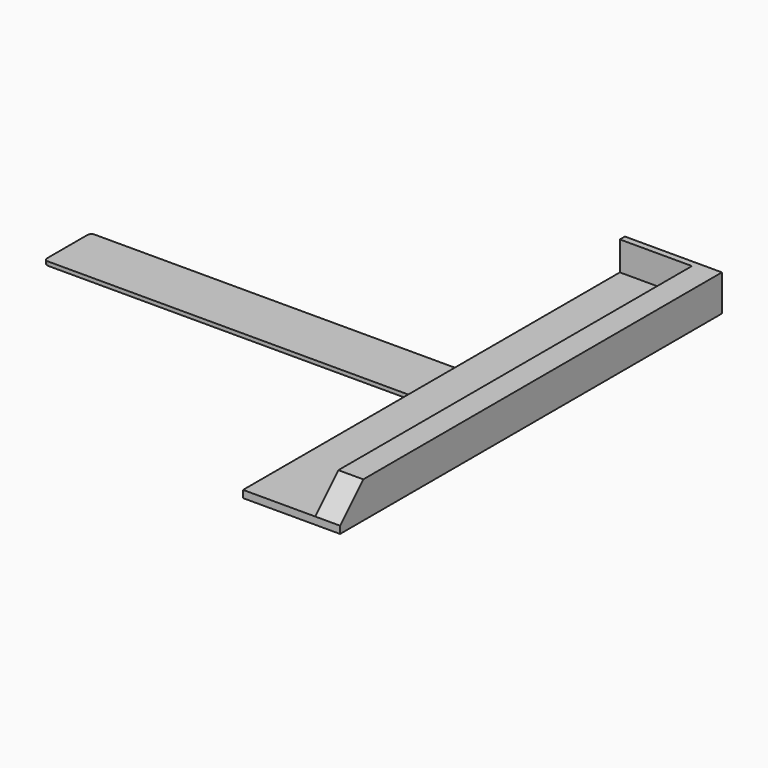
from build123d import *

# Parameters (mm, degrees)
BOX_W                  = 230
BOX_H                  = 30
BOX_DEPTH              = 2
FILLET_R               = 2
CYLINDER003_R          = 1.75
CYLINDER003_DEPTH      = 6
CYLINDER001_R          = 6.88
CYLINDER001_DEPTH      = 2
CYLINDER002_R          = 1.75
CYLINDER002_DEPTH      = 6
BOX004_W               = 20
BOX004_H               = 20
BOX004_DEPTH           = 28
BOX004_PLACEMENT_ANGLE = 45
BOX003_W               = 37.15
BOX003_H               = 242.75
BOX003_DEPTH           = 14.95
BOX002_W               = 50
BOX002_H               = 246
BOX002_DEPTH           = 14.95
BOX001_W               = 50
BOX001_H               = 246
BOX001_DEPTH           = 3.75
CYLINDER_R             = 6.88
CYLINDER_DEPTH         = 2


with BuildPart() as fillet_body:
    # Box → Box (new body)
    with BuildSketch(Plane.XY):
        with Locations((115, 15)):
            Rectangle(BOX_W, BOX_H)
    extrude(amount=BOX_DEPTH)

    # Fillet
    fillet_edges = [fillet_body.edges().sort_by_distance(p)[0] for p in [
        (0, 0, 1),
        (0, 30, 1),
        (230, 0, 1),
        (230, 30, 1),
    ]]
    fillet(fillet_edges, radius=FILLET_R)


with BuildPart() as fillet_body_1:
    # Fillet placement: moved
    add(fillet_body.part.moved(Location((11, 110.55, -1))))


with BuildPart() as cylinder003:
    # Cylinder003 → Cylinder003 (new body)
    with BuildSketch(Plane(origin=(21.63, 233.64, -2), x_dir=(1, 0, 0), z_dir=(0, 0, 1))):
        Circle(CYLINDER003_R)
    extrude(amount=CYLINDER003_DEPTH)


with BuildPart() as cylinder001:
    # Cylinder001 → Cylinder001 (new body)
    with BuildSketch(Plane(origin=(21.63, 233.64, -2), x_dir=(1, 0, 0), z_dir=(0, 0, 1))):
        Circle(CYLINDER001_R)
    extrude(amount=CYLINDER001_DEPTH)


with BuildPart() as cylinder002:
    # Cylinder002 → Cylinder002 (new body)
    with BuildSketch(Plane(origin=(21.63, 26.63, -2), x_dir=(1, 0, 0), z_dir=(0, 0, 1))):
        Circle(CYLINDER002_R)
    extrude(amount=CYLINDER002_DEPTH)


with BuildPart() as cube004:
    # Box004 → Box004 (new body)
    with BuildSketch(Plane.XY):
        with Locations((10, 10)):
            Rectangle(BOX004_W, BOX004_H)
    extrude(amount=BOX004_DEPTH)


with BuildPart() as cube004_1:
    # Box004 placement: moved
    add(cube004.part.moved(Location((0, -14.1422, 17.8921))).rotate(Axis((0, -14.1422, 17.8921), (-1, 0, 0)), BOX004_PLACEMENT_ANGLE))


with BuildPart() as cube003:
    # Box003 → Box003 (new body)
    with BuildSketch(Plane(origin=(12.85, 0, 3.75), x_dir=(1, 0, 0), z_dir=(0, 0, 1))):
        with Locations((18.575, 121.375)):
            Rectangle(BOX003_W, BOX003_H)
    extrude(amount=BOX003_DEPTH)


with BuildPart() as cut001:
    # Box002 → Box002 (new body)
    with BuildSketch(Plane.XY.offset(3.75)):
        with Locations((25, 123)):
            Rectangle(BOX002_W, BOX002_H)
    extrude(amount=BOX002_DEPTH)

    # Cut: cut Cube003
    add(cube003.part, mode=Mode.SUBTRACT)

    # Cut001: cut Cube004
    add(cube004_1.part, mode=Mode.SUBTRACT)


with BuildPart() as fusion:
    # Box001 → Box001 (new body)
    with BuildSketch(Plane.XY):
        with Locations((25, 123)):
            Rectangle(BOX001_W, BOX001_H)
    extrude(amount=BOX001_DEPTH)

    # Fusion: union Cut001
    add(cut001.part)


with BuildPart() as cut003:
    # Cylinder → Cylinder (new body)
    with BuildSketch(Plane(origin=(21.63, 26.63, -2), x_dir=(1, 0, 0), z_dir=(0, 0, 1))):
        Circle(CYLINDER_R)
    extrude(amount=CYLINDER_DEPTH)

    # Fusion001: union Fusion
    add(fusion.part)

    # Cut002: cut Cylinder002
    add(cylinder002.part, mode=Mode.SUBTRACT)

    # Fusion002: union Cylinder001
    add(cylinder001.part)

    # Cut003: cut Cylinder003
    add(cylinder003.part, mode=Mode.SUBTRACT)


with BuildPart() as part_mirroring:
    # Part__Mirroring: instance of Cut003
    add(cut003.part.mirror(Plane(origin=(126, 0, 0), x_dir=(0, -1, 0), z_dir=(1, 0, 0))))


solid = Compound([fillet_body_1.part, part_mirroring.part])
